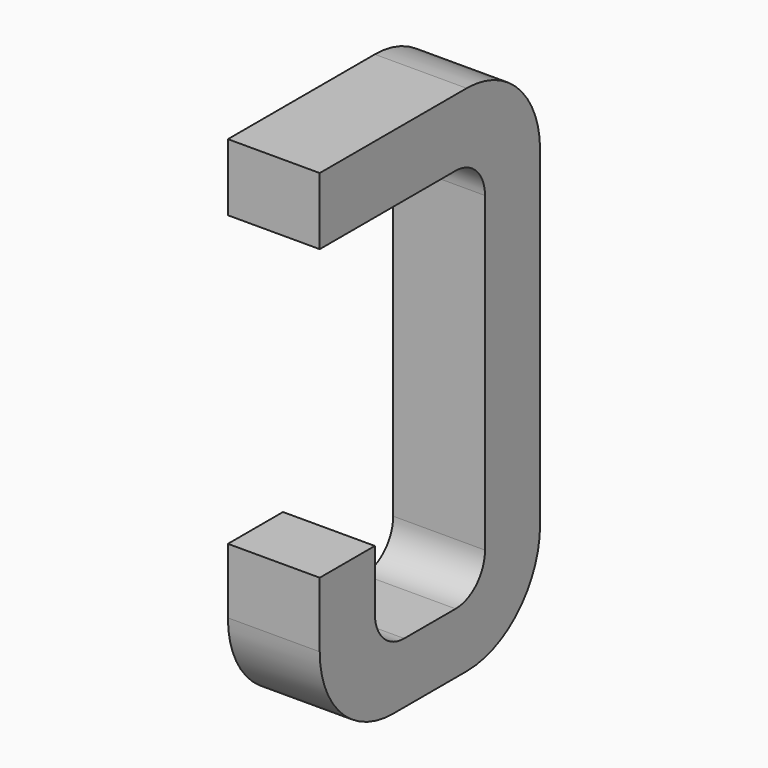
from build123d import *

# Parameters (mm, degrees)
BOX021_W     = 0.5
BOX021_H     = 1.5
BOX021_DEPTH = 2.795
FILLET043_R  = 0.5
FILLET028_R  = 0.5
FILLET053_R  = 0.5
BOX019_W     = 0.75
BOX019_H     = 2.1
BOX019_DEPTH = 1
FILLET055_R  = 0.2
FILLET029_R  = 0.2
FILLET051_R  = 0.2
FILLET052_R  = 0.2
BOX022_W     = 1
BOX022_H     = 1.575
BOX022_DEPTH = 3


with BuildPart() as part:
    # Box021 → Box021 (join)
    with BuildSketch(Plane(origin=(-0.25, 11.125, 0), x_dir=(1, 0, 0), z_dir=(0, 0, 1))):
        with Locations((0.25, 0.75)):
            Rectangle(BOX021_W, BOX021_H)
    extrude(amount=BOX021_DEPTH)

    # Fillet043
    fillet043_edges = [part.edges().sort_by_distance(p)[0] for p in [
        (0, 12.625, 0),
    ]]
    fillet(fillet043_edges, radius=FILLET043_R)

    # Fillet028
    fillet028_edges = [part.edges().sort_by_distance(p)[0] for p in [
        (0, 12.625, 2.795),
    ]]
    fillet(fillet028_edges, radius=FILLET028_R)

    # Fillet053
    fillet053_edges = [part.edges().sort_by_distance(p)[0] for p in [
        (0, 11.125, 0),
    ]]
    fillet(fillet053_edges, radius=FILLET053_R)

    # Box019 → Box019 (cut)
    with BuildSketch(Plane(origin=(-0.5, 11.5, 0.33), x_dir=(0, 1, 0), z_dir=(1, 0, 0))):
        with Locations((0.375, 1.05)):
            Rectangle(BOX019_W, BOX019_H)
    extrude(amount=BOX019_DEPTH, mode=Mode.SUBTRACT)

    # Fillet055
    fillet055_edges = [part.edges().sort_by_distance(p)[0] for p in [
        (0, 11.5, 0.33),
    ]]
    fillet(fillet055_edges, radius=FILLET055_R)

    # Fillet029
    fillet029_edges = [part.edges().sort_by_distance(p)[0] for p in [
        (0, 12.25, 0.33),
    ]]
    fillet(fillet029_edges, radius=FILLET029_R)

    # Fillet051
    fillet051_edges = [part.edges().sort_by_distance(p)[0] for p in [
        (0, 11.5, 2.43),
    ]]
    fillet(fillet051_edges, radius=FILLET051_R)

    # Fillet052
    fillet052_edges = [part.edges().sort_by_distance(p)[0] for p in [
        (0, 12.25, 2.43),
    ]]
    fillet(fillet052_edges, radius=FILLET052_R)

    # Box022 → Box022 (cut)
    with BuildSketch(Plane(origin=(-1, 11, 0.855), x_dir=(0, 1, 0), z_dir=(1, 0, 0))):
        with Locations((0.5, 0.7875)):
            Rectangle(BOX022_W, BOX022_H)
    extrude(amount=BOX022_DEPTH, mode=Mode.SUBTRACT)


with BuildPart() as part_1:
    # Body008 placement: moved
    add(part.part.moved(Location((7.62, 0, 0))))


solid = part_1.part
